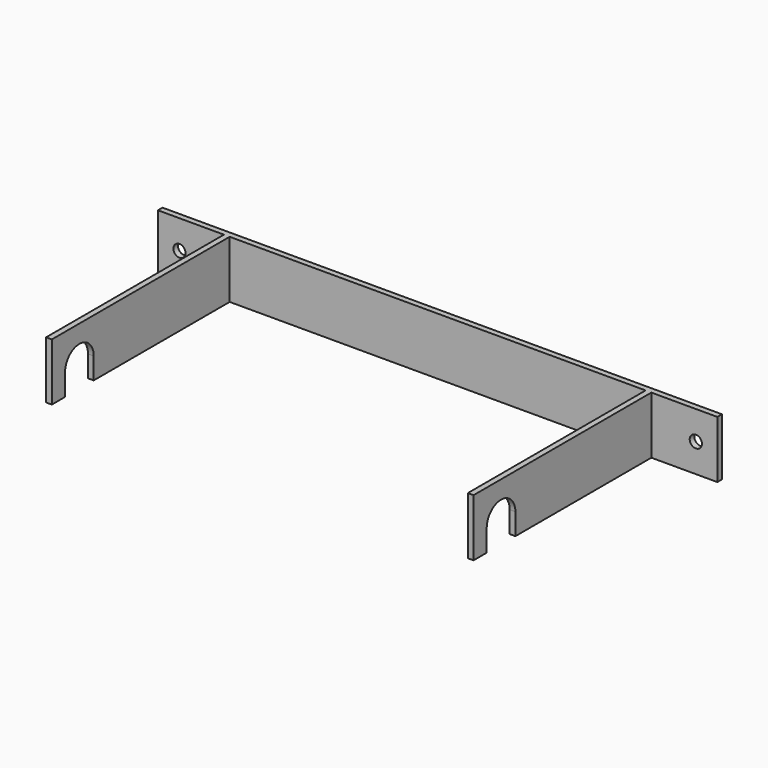
from build123d import *

# Parameters (mm, degrees)
F0_W     = 390
F0_H     = 40
F0_R     = 4.25
F1_DEPTH = 4
F2_W     = 4
F2_H     = 40
F3_DEPTH = 155
F5_DEPTH = 298


with BuildPart() as f1:
    # F0 (on Front) → F1 (new body)
    with BuildSketch(Plane.XZ):
        with Locations((195, 20)):
            Rectangle(F0_W, F0_H)
        with Locations((15, 20)):
            Circle(F0_R, mode=Mode.SUBTRACT)
        with Locations((375, 20)):
            Circle(F0_R, mode=Mode.SUBTRACT)
    extrude(amount=F1_DEPTH)

    # F2 (on face) → F3 (join)
    with BuildSketch(Plane.XZ.offset(4)):
        with Locations((48, 20)):
            Rectangle(F2_W, F2_H)
        with Locations((342, 20)):
            Rectangle(F2_W, F2_H)
    extrude(amount=F3_DEPTH)

    # F4 (on face) → F5 (cut, through all)
    with BuildSketch(Plane.YZ.offset(344)):
        with BuildLine():
            Line((-122.5, 0), (-122.5, 15))
            ThreePointArc((-122.5, 15), (-135, 27.5), (-147.5, 15))
            Line((-147.5, 15), (-147.5, 0))
            Line((-147.5, 0), (-122.5, 0))
        make_face()
    extrude(amount=-F5_DEPTH, mode=Mode.SUBTRACT)


solid = f1.part
